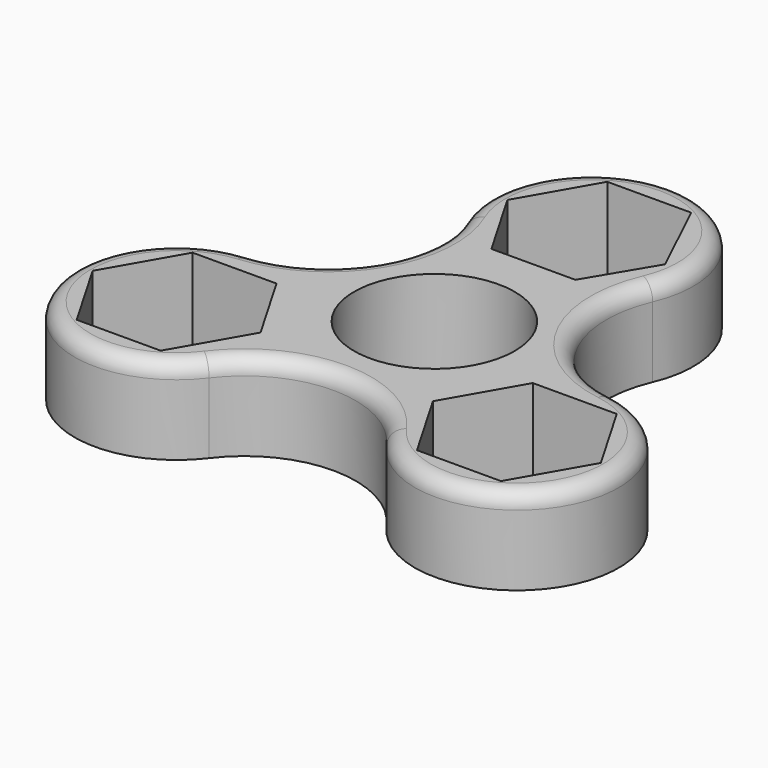
from build123d import *

# Parameters (mm, degrees)
F0_R     = 12.9921
F1_DEPTH = 13.97
F2_R     = 2.54


with BuildPart() as f1:
    # F0 (on Top) → F1 (new body)
    with BuildSketch(Plane.XY):
        with BuildLine():
            ThreePointArc((-15.190386, 25.282213), (-16.326972, 8.96601), (-30.209694, 0.318447))
            ThreePointArc((-30.209694, 0.318447), (-43.252469, -24.127829), (-15.611433, -26.053302))
            ThreePointArc((-15.611433, -26.053302), (-0.912893, -18.879513), (13.517478, -26.578521))
            ThreePointArc((13.517478, -26.578521), (41.074317, -25.87225), (29.571536, -0.821018))
            ThreePointArc((29.571536, -0.821018), (15.975981, 8.658485), (15.16051, 25.21249))
            ThreePointArc((15.16051, 25.21249), (0.037928, 48.259956), (-15.190386, 25.282213))
        make_face()
        Polygon((-22.000854, -27.863749), (-35.564423, -27.892911), (-42.371462, -16.161097), (-35.614932, -4.400121), (-22.051364, -4.370959), (-15.244325, -16.102773), align=None, mode=Mode.SUBTRACT)
        Polygon((33.870064, -28.871149), (20.306496, -28.900311), (13.499457, -17.168497), (20.255986, -5.407521), (33.819555, -5.378359), (40.626594, -17.110173), align=None, mode=Mode.SUBTRACT)
        Circle(F0_R, mode=Mode.SUBTRACT)
        Polygon((6.807039, 20.018186), (-6.75653, 19.989024), (-13.563569, 31.720838), (-6.807039, 43.481814), (6.75653, 43.510976), (13.007925, 30.406794), align=None, mode=Mode.SUBTRACT)
    extrude(amount=F1_DEPTH)

    # F2
    f2_edges = [f1.edges().sort_by_distance(p)[0] for p in [
        (-0.912893, -18.879513, 13.97),
        (-43.252469, -24.127829, 13.97),
        (-16.326972, 8.96601, 13.97),
        (0.037928, 48.259956, 13.97),
        (15.975981, 8.658485, 13.97),
        (41.074317, -25.87225, 13.97),
    ]]
    fillet(f2_edges, radius=F2_R)


solid = f1.part
